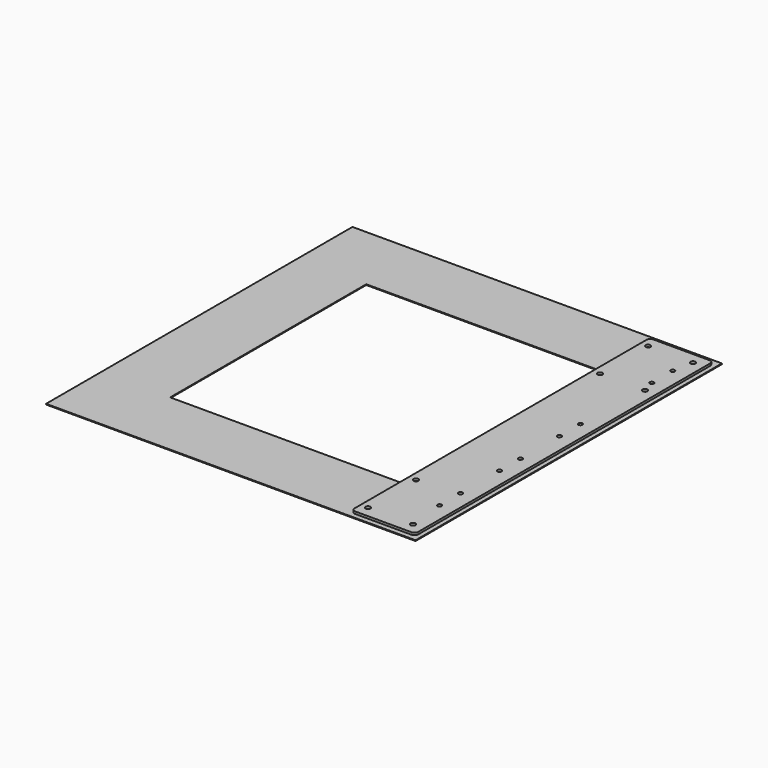
from build123d import *

# Parameters (mm, degrees)
F0_W     = 493
F0_H     = 511
F0_W_2   = 309
F0_H_2   = 327
F1_DEPTH = 1
F2_R     = 3.3
F2_R_2   = 2.75
F3_DEPTH = 3


with BuildPart() as f1:
    # F0 (on Top) → F1 (new body)
    with BuildSketch(Plane.XY):
        with Locations((154.5, 163.5)):
            Rectangle(F0_W, F0_H)
        with Locations((154.5, 163.5)):
            Rectangle(F0_W_2, F0_H_2, mode=Mode.SUBTRACT)
    extrude(amount=F1_DEPTH)

    # F2 (on face) → F3 (join)
    with BuildSketch(Plane.XY.offset(1)):
        with BuildLine():
            Line((390, 412), (315, 412))
            ThreePointArc((315, 412), (311.464466, 410.535534), (310, 407))
            Line((310, 407), (310, -80))
            ThreePointArc((310, -80), (311.464466, -83.535534), (315, -85))
            Line((315, -85), (390, -85))
            ThreePointArc((390, -85), (393.535534, -83.535534), (395, -80))
            Line((395, -80), (395, 407))
            ThreePointArc((395, 407), (393.535534, 410.535534), (390, 412))
        make_face()
        with Locations((320, -70)):
            Circle(F2_R, mode=Mode.SUBTRACT)
        with Locations((380, -70)):
            Circle(F2_R, mode=Mode.SUBTRACT)
        with Locations((320, 10)):
            Circle(F2_R, mode=Mode.SUBTRACT)
        with Locations((375, -19.5)):
            Circle(F2_R_2, mode=Mode.SUBTRACT)
        with Locations((375, 15.5)):
            Circle(F2_R_2, mode=Mode.SUBTRACT)
        with Locations((375, 80.5)):
            Circle(F2_R_2, mode=Mode.SUBTRACT)
        with Locations((375, 115.5)):
            Circle(F2_R_2, mode=Mode.SUBTRACT)
        with Locations((375, 180.5)):
            Circle(F2_R_2, mode=Mode.SUBTRACT)
        with Locations((375, 215.5)):
            Circle(F2_R_2, mode=Mode.SUBTRACT)
        with Locations((320, 317)):
            Circle(F2_R, mode=Mode.SUBTRACT)
        with Locations((380, 317)):
            Circle(F2_R, mode=Mode.SUBTRACT)
        with Locations((375, 334.5)):
            Circle(F2_R_2, mode=Mode.SUBTRACT)
        with Locations((320, 397)):
            Circle(F2_R, mode=Mode.SUBTRACT)
        with Locations((375, 369.5)):
            Circle(F2_R_2, mode=Mode.SUBTRACT)
        with Locations((380, 397)):
            Circle(F2_R, mode=Mode.SUBTRACT)
    extrude(amount=F3_DEPTH)


solid = f1.part
